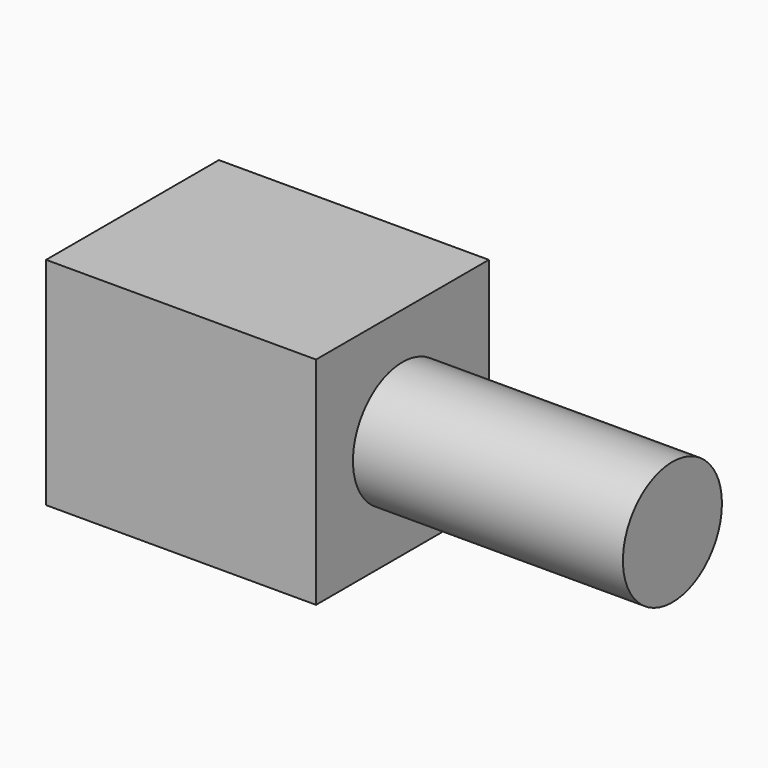
from build123d import *

# Parameters (mm, degrees)
SKETCH_W     = 8
SKETCH_H     = 8
PAD_DEPTH    = 10
SKETCH001_R  = 2.291718
PAD001_DEPTH = 10


with BuildPart() as part:
    # Sketch → Pad (new body)
    with BuildSketch(Plane.YZ):
        Rectangle(SKETCH_W, SKETCH_H)
    extrude(amount=PAD_DEPTH)

    # Sketch001 (on Face6 of Pad) → Pad001 (join)
    with BuildSketch(Plane.YZ.offset(10)):
        Circle(SKETCH001_R)
    extrude(amount=PAD001_DEPTH)


solid = part.part
